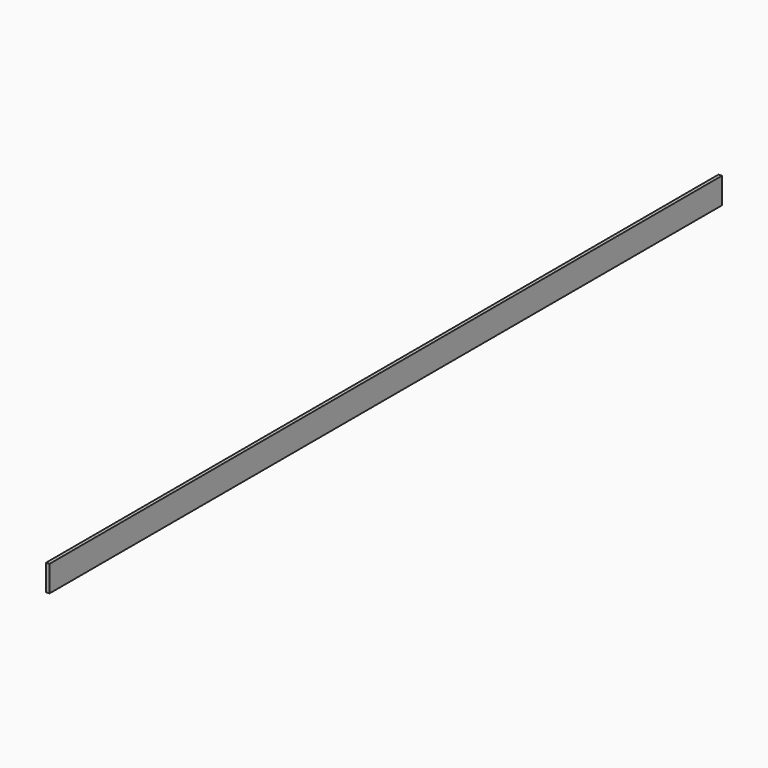
from build123d import *

# Parameters (mm, degrees)
SKETCH002_W = 2
SKETCH002_H = 15.5
PAD_DEPTH   = 500


with BuildPart() as part:
    # Sketch002 → Pad (new body)
    with BuildSketch(Plane.XZ):
        with Locations((-1, 7.75)):
            Rectangle(SKETCH002_W, SKETCH002_H)
    extrude(amount=-PAD_DEPTH)


solid = part.part
